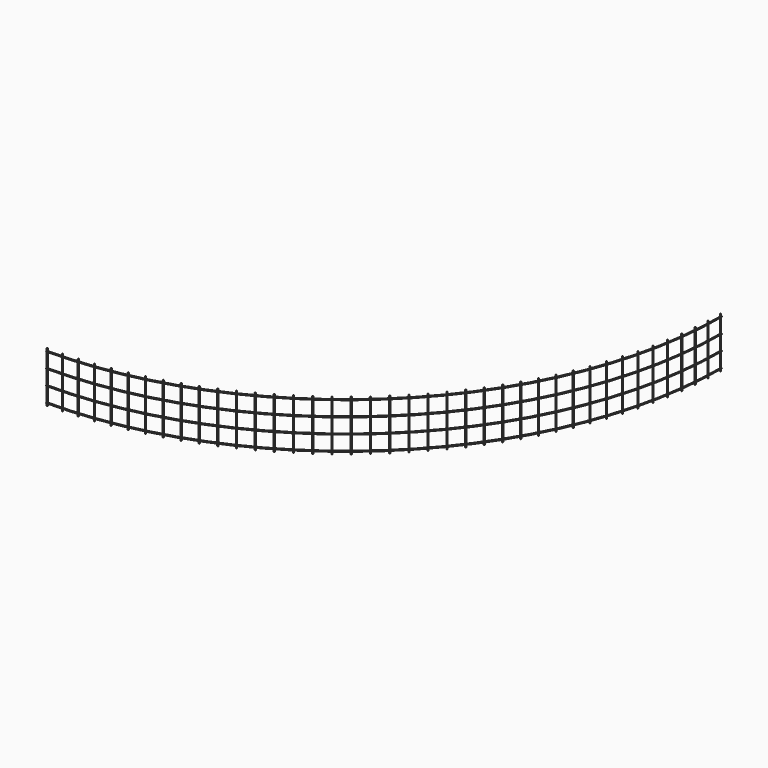
from build123d import *

# Parameters (mm, degrees)
F0_R     = 2.5
F1_DEPTH = 125
F2_R     = 2.5


with BuildPart() as f1:
    # F0 (on Top) → F1 (new body, symmetric)
    with BuildSketch(Plane.XY):
        with Locations((0, -1852.5)):
            Circle(F0_R)
    extrude(amount=F1_DEPTH, both=True)


with BuildPart() as f1b:
    # F0 (on Top) → F1, piece 2 (new body, symmetric)
    with BuildSketch(Plane.XY):
        with Locations((74.5926540527, -1850.9976191128)):
            Circle(F0_R)
    extrude(amount=F1_DEPTH, both=True)


with BuildPart() as f1c:
    # F0 (on Top) → F1, piece 3 (new body, symmetric)
    with BuildSketch(Plane.XY):
        with Locations((149.0643185477, -1846.4929133186)):
            Circle(F0_R)
    extrude(amount=F1_DEPTH, both=True)


with BuildPart() as f1d:
    # F0 (on Top) → F1, piece 4 (new body, symmetric)
    with BuildSketch(Plane.XY):
        with Locations((223.294200173, -1838.9931892666)):
            Circle(F0_R)
    extrude(amount=F1_DEPTH, both=True)


with BuildPart() as f1e:
    # F0 (on Top) → F1, piece 5 (new body, symmetric)
    with BuildSketch(Plane.XY):
        with Locations((297.161897789, -1828.5106115367)):
            Circle(F0_R)
    extrude(amount=F1_DEPTH, both=True)


with BuildPart() as f1f:
    # F0 (on Top) → F1, piece 6 (new body, symmetric)
    with BuildSketch(Plane.XY):
        with Locations((370.5475977201, -1815.0621829083)):
            Circle(F0_R)
    extrude(amount=F1_DEPTH, both=True)


with BuildPart() as f1g:
    # F0 (on Top) → F1, piece 7 (new body, symmetric)
    with BuildSketch(Plane.XY):
        with Locations((443.3322680927, -1798.6697167818)):
            Circle(F0_R)
    extrude(amount=F1_DEPTH, both=True)


with BuildPart() as f1h:
    # F0 (on Top) → F1, piece 8 (new body, symmetric)
    with BuildSketch(Plane.XY):
        with Locations((515.3978519052, -1779.3598017971)):
            Circle(F0_R)
    extrude(amount=F1_DEPTH, both=True)


with BuildPart() as f1i:
    # F0 (on Top) → F1, piece 9 (new body, symmetric)
    with BuildSketch(Plane.XY):
        with Locations((586.6274585172, -1757.1637587071)):
            Circle(F0_R)
    extrude(amount=F1_DEPTH, both=True)


with BuildPart() as f1j:
    # F0 (on Top) → F1, piece 10 (new body, symmetric)
    with BuildSketch(Plane.XY):
        with Locations((656.9055532463, -1732.1175895747)):
            Circle(F0_R)
    extrude(amount=F1_DEPTH, both=True)


with BuildPart() as f1k:
    # F0 (on Top) → F1, piece 11 (new body, symmetric)
    with BuildSketch(Plane.XY):
        with Locations((726.1181447658, -1704.261919378)):
            Circle(F0_R)
    extrude(amount=F1_DEPTH, both=True)


with BuildPart() as f1l:
    # F0 (on Top) → F1, piece 12 (new body, symmetric)
    with BuildSketch(Plane.XY):
        with Locations((794.1529699992, -1673.6419301157)):
            Circle(F0_R)
    extrude(amount=F1_DEPTH, both=True)


with BuildPart() as f1m:
    # F0 (on Top) → F1, piece 13 (new body, symmetric)
    with BuildSketch(Plane.XY):
        with Locations((860.8996762111, -1640.3072875226)):
            Circle(F0_R)
    extrude(amount=F1_DEPTH, both=True)


with BuildPart() as f1n:
    # F0 (on Top) → F1, piece 14 (new body, symmetric)
    with BuildSketch(Plane.XY):
        with Locations((926.25, -1604.3120605107)):
            Circle(F0_R)
    extrude(amount=F1_DEPTH, both=True)


with BuildPart() as f1o:
    # F0 (on Top) → F1, piece 15 (new body, symmetric)
    with BuildSketch(Plane.XY):
        with Locations((990.0979429018, -1565.7146334699)):
            Circle(F0_R)
    extrude(amount=F1_DEPTH, both=True)


with BuildPart() as f1p:
    # F0 (on Top) → F1, piece 16 (new body, symmetric)
    with BuildSketch(Plane.XY):
        with Locations((1052.3399433195, -1524.577611568)):
            Circle(F0_R)
    extrude(amount=F1_DEPTH, both=True)


with BuildPart() as f1q:
    # F0 (on Top) → F1, piece 17 (new body, symmetric)
    with BuildSketch(Plane.XY):
        with Locations((1112.8750445009, -1480.967719205)):
            Circle(F0_R)
    extrude(amount=F1_DEPTH, both=True)


with BuildPart() as f1r:
    # F0 (on Top) → F1, piece 18 (new body, symmetric)
    with BuildSketch(Plane.XY):
        with Locations((1171.6050582904, -1434.9556917857)):
            Circle(F0_R)
    extrude(amount=F1_DEPTH, both=True)


with BuildPart() as f1s:
    # F0 (on Top) → F1, piece 19 (new body, symmetric)
    with BuildSketch(Plane.XY):
        with Locations((1228.4347243911, -1386.616160987)):
            Circle(F0_R)
    extrude(amount=F1_DEPTH, both=True)


with BuildPart() as f1t:
    # F0 (on Top) → F1, piece 20 (new body, symmetric)
    with BuildSketch(Plane.XY):
        with Locations((1283.2718648765, -1336.0275337044)):
            Circle(F0_R)
    extrude(amount=F1_DEPTH, both=True)


with BuildPart() as f1u:
    # F0 (on Top) → F1, piece 21 (new body, symmetric)
    with BuildSketch(Plane.XY):
        with Locations((1336.0275337044, -1283.2718648765)):
            Circle(F0_R)
    extrude(amount=F1_DEPTH, both=True)


with BuildPart() as f1v:
    # F0 (on Top) → F1, piece 22 (new body, symmetric)
    with BuildSketch(Plane.XY):
        with Locations((1386.616160987, -1228.4347243911)):
            Circle(F0_R)
    extrude(amount=F1_DEPTH, both=True)


with BuildPart() as f1w:
    # F0 (on Top) → F1, piece 23 (new body, symmetric)
    with BuildSketch(Plane.XY):
        with Locations((1434.9556917857, -1171.6050582904)):
            Circle(F0_R)
    extrude(amount=F1_DEPTH, both=True)


with BuildPart() as f1x:
    # F0 (on Top) → F1, piece 24 (new body, symmetric)
    with BuildSketch(Plane.XY):
        with Locations((1480.967719205, -1112.8750445009)):
            Circle(F0_R)
    extrude(amount=F1_DEPTH, both=True)


with BuildPart() as f1y:
    # F0 (on Top) → F1, piece 25 (new body, symmetric)
    with BuildSketch(Plane.XY):
        with Locations((1524.577611568, -1052.3399433195)):
            Circle(F0_R)
    extrude(amount=F1_DEPTH, both=True)


with BuildPart() as f1z:
    # F0 (on Top) → F1, piece 26 (new body, symmetric)
    with BuildSketch(Plane.XY):
        with Locations((1565.7146334699, -990.0979429018)):
            Circle(F0_R)
    extrude(amount=F1_DEPTH, both=True)


with BuildPart() as f1ba:
    # F0 (on Top) → F1, piece 27 (new body, symmetric)
    with BuildSketch(Plane.XY):
        with Locations((1604.3120605107, -926.25)):
            Circle(F0_R)
    extrude(amount=F1_DEPTH, both=True)


with BuildPart() as f1bb:
    # F0 (on Top) → F1, piece 28 (new body, symmetric)
    with BuildSketch(Plane.XY):
        with Locations((1640.3072875226, -860.8996762111)):
            Circle(F0_R)
    extrude(amount=F1_DEPTH, both=True)


with BuildPart() as f1bc:
    # F0 (on Top) → F1, piece 29 (new body, symmetric)
    with BuildSketch(Plane.XY):
        with Locations((1673.6419301157, -794.1529699992)):
            Circle(F0_R)
    extrude(amount=F1_DEPTH, both=True)


with BuildPart() as f1bd:
    # F0 (on Top) → F1, piece 30 (new body, symmetric)
    with BuildSketch(Plane.XY):
        with Locations((1704.261919378, -726.1181447658)):
            Circle(F0_R)
    extrude(amount=F1_DEPTH, both=True)


with BuildPart() as f1be:
    # F0 (on Top) → F1, piece 31 (new body, symmetric)
    with BuildSketch(Plane.XY):
        with Locations((1732.1175895747, -656.9055532463)):
            Circle(F0_R)
    extrude(amount=F1_DEPTH, both=True)


with BuildPart() as f1bf:
    # F0 (on Top) → F1, piece 32 (new body, symmetric)
    with BuildSketch(Plane.XY):
        with Locations((1757.1637587071, -586.6274585172)):
            Circle(F0_R)
    extrude(amount=F1_DEPTH, both=True)


with BuildPart() as f1bg:
    # F0 (on Top) → F1, piece 33 (new body, symmetric)
    with BuildSketch(Plane.XY):
        with Locations((1779.3598017971, -515.3978519052)):
            Circle(F0_R)
    extrude(amount=F1_DEPTH, both=True)


with BuildPart() as f1bh:
    # F0 (on Top) → F1, piece 34 (new body, symmetric)
    with BuildSketch(Plane.XY):
        with Locations((1798.6697167818, -443.3322680927)):
            Circle(F0_R)
    extrude(amount=F1_DEPTH, both=True)


with BuildPart() as f1bi:
    # F0 (on Top) → F1, piece 35 (new body, symmetric)
    with BuildSketch(Plane.XY):
        with Locations((1815.0621829083, -370.5475977201)):
            Circle(F0_R)
    extrude(amount=F1_DEPTH, both=True)


with BuildPart() as f1bj:
    # F0 (on Top) → F1, piece 36 (new body, symmetric)
    with BuildSketch(Plane.XY):
        with Locations((1828.5106115367, -297.161897789)):
            Circle(F0_R)
    extrude(amount=F1_DEPTH, both=True)


with BuildPart() as f1bk:
    # F0 (on Top) → F1, piece 37 (new body, symmetric)
    with BuildSketch(Plane.XY):
        with Locations((1838.9931892666, -223.294200173)):
            Circle(F0_R)
    extrude(amount=F1_DEPTH, both=True)


with BuildPart() as f1bl:
    # F0 (on Top) → F1, piece 38 (new body, symmetric)
    with BuildSketch(Plane.XY):
        with Locations((1846.4929133186, -149.0643185477)):
            Circle(F0_R)
    extrude(amount=F1_DEPTH, both=True)


with BuildPart() as f1bm:
    # F0 (on Top) → F1, piece 39 (new body, symmetric)
    with BuildSketch(Plane.XY):
        with Locations((1850.9976191128, -74.5926540527)):
            Circle(F0_R)
    extrude(amount=F1_DEPTH, both=True)


with BuildPart() as f1bn:
    # F0 (on Top) → F1, piece 40 (new body, symmetric)
    with BuildSketch(Plane.XY):
        with Locations((1852.5, 0)):
            Circle(F0_R)
    extrude(amount=F1_DEPTH, both=True)


with BuildPart() as f5:
    # F5: sweep along a path in F4
    with BuildLine(Plane.XY.offset(115)) as f5_path:
        ThreePointArc((0, -1857.5), (1313.450846054, -1313.450846054), (1857.5, 0))
    # F2 (on Right) → F5 (sweep)
    with BuildSketch(Plane.YZ):
        with Locations((-1857.5, 115)):
            Circle(F2_R)
        with Locations((-1857.5, 40)):
            Circle(F2_R)
        with Locations((-1857.5, -35)):
            Circle(F2_R)
        with Locations((-1857.5, -110)):
            Circle(F2_R)
    sweep(path=f5_path.line)


solid = Compound([f1.part, f1b.part, f1c.part, f1d.part, f1e.part, f1f.part, f1g.part, f1h.part, f1i.part, f1j.part, f1k.part, f1l.part, f1m.part, f1n.part, f1o.part, f1p.part, f1q.part, f1r.part, f1s.part, f1t.part, f1u.part, f1v.part, f1w.part, f1x.part, f1y.part, f1z.part, f1ba.part, f1bb.part, f1bc.part, f1bd.part, f1be.part, f1bf.part, f1bg.part, f1bh.part, f1bi.part, f1bj.part, f1bk.part, f1bl.part, f1bm.part, f1bn.part, f5.part])
